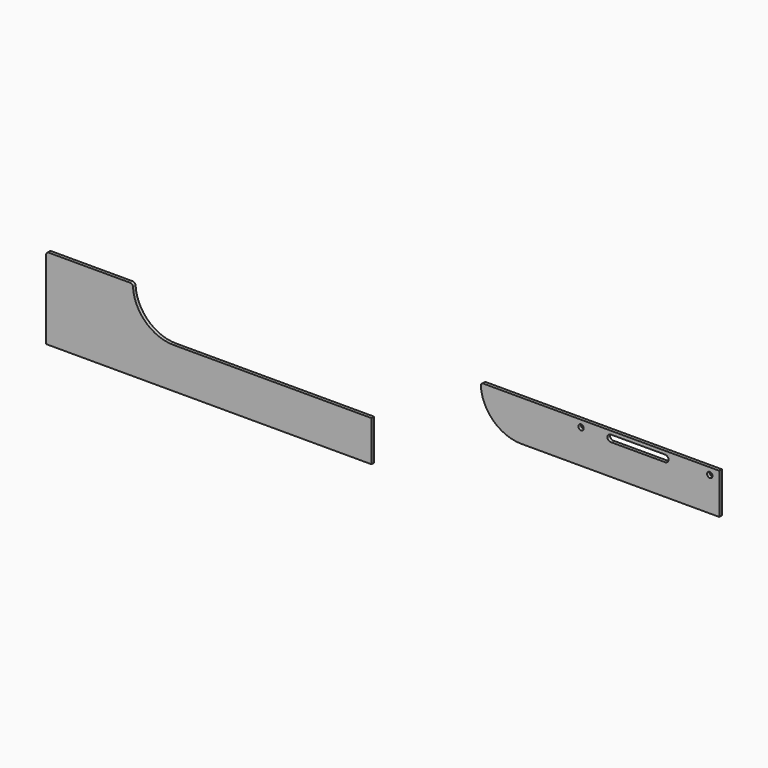
from build123d import *

# Parameters (mm, degrees)
F0_R     = 5
F1_DEPTH = 6


with BuildPart() as f1:
    # F0 (on Front) → F1 (new body)
    with BuildSketch(Plane.XZ):
        with BuildLine():
            Line((-920.83818, 218.68212), (-920.83818, 73.68212))
            Line((-920.83818, 73.68212), (-320.83818, 73.68212))
            Line((-320.83818, 73.68212), (-320.83818, 148.68212))
            Line((-320.83818, 148.68212), (-395.83818, 148.68212))
            Line((-395.83818, 148.68212), (-685.83818, 148.68212))
            ThreePointArc((-685.83818, 148.68212), (-737.18717, 169.016946), (-760.691552, 218.99462))
            ThreePointArc((-760.691552, 218.99462), (-762.258511, 222.326465), (-765.681777, 223.68212))
            Line((-765.681777, 223.68212), (-915.83818, 223.68212))
            ThreePointArc((-915.83818, 223.68212), (-919.373714, 222.217654), (-920.83818, 218.68212))
        make_face()
        with BuildLine():
            Line((-44.474023, 196.750934), (245.525977, 196.750934))
            Line((245.525977, 196.750934), (320.525977, 196.750934))
            Line((320.525977, 196.750934), (320.525977, 271.750934))
            Line((320.525977, 271.750934), (-114.295223, 271.750934))
            ThreePointArc((-114.295223, 271.750934), (-117.954848, 270.15786), (-119.282451, 266.393791))
            ThreePointArc((-119.282451, 266.393791), (-95.577908, 216.856555), (-44.474023, 196.750934))
        make_face()
        with Locations((65.525977, 259.250934)):
            Circle(F0_R, mode=Mode.SUBTRACT)
        with BuildLine():
            ThreePointArc((121.923759, 253.159242), (114.360898, 258.224145), (119.87394, 265.466829))
            ThreePointArc((119.87394, 265.466829), (120.52386, 265.500934), (121.173802, 265.467269))
            Line((121.173802, 265.467269), (220.52386, 265.500934))
            ThreePointArc((220.52386, 265.500934), (224.944646, 263.6711), (226.775977, 259.250934))
            ThreePointArc((226.775977, 259.250934), (225.41467, 255.356941), (221.923759, 253.159242))
            ThreePointArc((221.923759, 253.159242), (220.525977, 253.000934), (219.128195, 253.159242))
            Line((219.128195, 253.159242), (121.923759, 253.159242))
        make_face(mode=Mode.SUBTRACT)
        with Locations((303.025977, 259.250934)):
            Circle(F0_R, mode=Mode.SUBTRACT)
    extrude(amount=F1_DEPTH)


solid = f1.part
